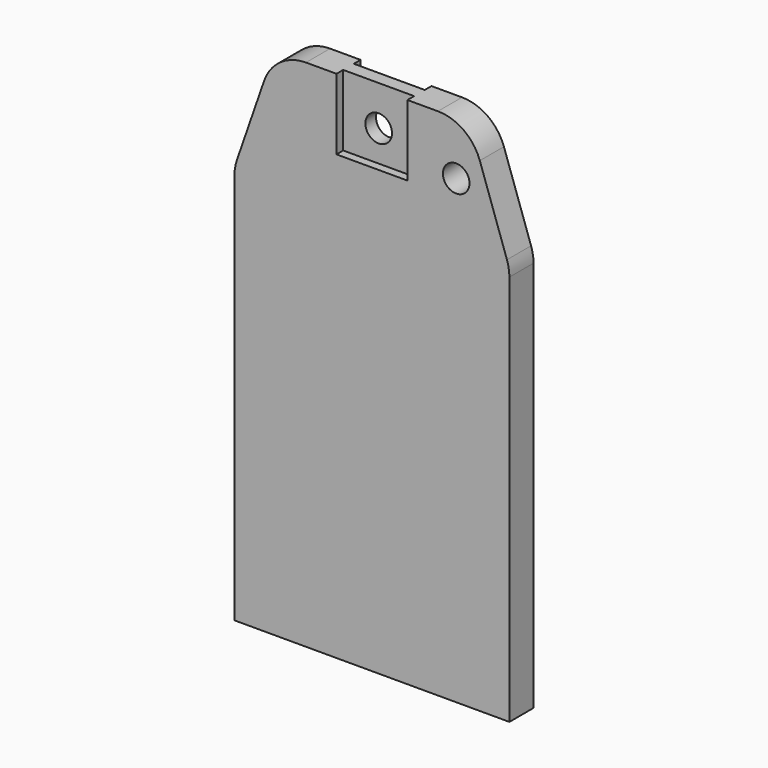
from build123d import *

# Parameters (mm, degrees)
F1_R     = 1.5
F1_W     = 22
F1_H     = 13
F2_DEPTH = 3.4
F3_W     = 8
F3_H     = 0.95
F4_DEPTH = 8
F5_DEPTH = 8
F6_R     = 5
F7_R     = 5
F8_R     = 5
F9_R     = 5


with BuildPart() as f2:
    # F1 (on Front) → F2 (new body)
    with BuildSketch(Plane.XZ):
        Polygon((15.5, -22.5), (15.5, 22.5), (11, 22.5), (11, 9.5), (-11, 9.5), (-11, 22.5), (-15.5, 22.5), (-15.5, -22.5), align=None)
        Polygon((11, 22.5), (15.5, 22.5), (11, 35.5), (11, 29.5), align=None)
        Polygon((-11, 22.5), (11, 22.5), (11, 29.5), (11, 35.5), (-11, 35.5), align=None)
        with Locations((0, 31)):
            Circle(F1_R, mode=Mode.SUBTRACT)
        with Locations((9.5, 29.5)):
            Circle(F1_R, mode=Mode.SUBTRACT)
        Polygon((-15.5, 22.5), (-11, 22.5), (-11, 35.5), align=None)
        with Locations((0, 16)):
            Rectangle(F1_W, F1_H)
    extrude(amount=F2_DEPTH)

    # F3 (on face) → F4 (cut)
    with BuildSketch(Plane.XY.offset(35.5)):
        with Locations((0, -0.475)):
            Rectangle(F3_W, F3_H)
    extrude(amount=-F4_DEPTH, mode=Mode.SUBTRACT)

    # F3 (on face) → F5 (cut)
    with BuildSketch(Plane.XY.offset(35.5)):
        with Locations((0, -2.925)):
            Rectangle(F3_W, F3_H)
    extrude(amount=-F5_DEPTH, mode=Mode.SUBTRACT)

    # F6
    f6_edges = [f2.edges().sort_by_distance(p)[0] for p in [
        (-11, -1.7, 35.5),
    ]]
    fillet(f6_edges, radius=F6_R)

    # F7
    f7_edges = [f2.edges().sort_by_distance(p)[0] for p in [
        (11, -1.7, 35.5),
    ]]
    fillet(f7_edges, radius=F7_R)

    # F8
    f8_edges = [f2.edges().sort_by_distance(p)[0] for p in [
        (15.5, -1.7, 22.5),
    ]]
    fillet(f8_edges, radius=F8_R)

    # F9
    f9_edges = [f2.edges().sort_by_distance(p)[0] for p in [
        (-15.5, -1.7, 22.5),
    ]]
    fillet(f9_edges, radius=F9_R)


solid = f2.part
